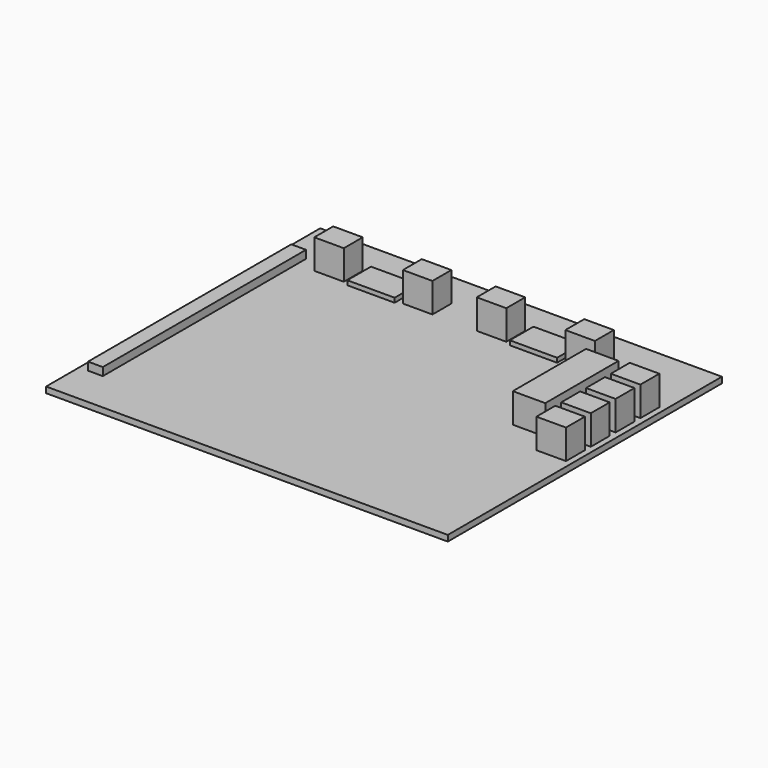
from build123d import *

# Parameters (mm, degrees)
F0_W        = 136
F0_H        = 116
F1_DEPTH    = 1
F2_W        = 11
F2_H        = 31
F2_W_2      = 16
F2_H_2      = 10
F2_W_3      = 5
F2_H_3      = 86
F2_W_4      = 10
F2_H_4      = 8
F3_DEPTH    = 10
F3_FACE_W   = 5
F3_FACE_H   = 86
F4_DEPTH    = 7.3
F3_FACE_W_2 = 16
F3_FACE_H_2 = 10
F5_DEPTH    = 8.5


with BuildPart() as f1:
    # F0 (on Top) → F1 (new body, symmetric)
    with BuildSketch(Plane.XY):
        Rectangle(F0_W, F0_H)
    extrude(amount=F1_DEPTH, both=True)

    # F2 (on face) → F3 (join)
    with BuildSketch(Plane.XY.offset(1)):
        with Locations((47.5, 17.5)):
            Rectangle(F2_W, F2_H)
        with Locations((21, 42)):
            Rectangle(F2_W_2, F2_H_2)
        with Locations((-34, 42)):
            Rectangle(F2_W_2, F2_H_2)
        with Locations((-62.5, -1)):
            Rectangle(F2_W_3, F2_H_3)
        with Locations((-49, 42)):
            Rectangle(F2_W_4, F2_H_4)
        with Locations((-19, 42)):
            Rectangle(F2_W_4, F2_H_4)
        with Locations((6, 42)):
            Rectangle(F2_W_4, F2_H_4)
        with Locations((36, 42)):
            Rectangle(F2_W_4, F2_H_4)
        with Locations((61, 30)):
            Rectangle(F2_W_4, F2_H_4)
        with Locations((61, 19.5)):
            Rectangle(F2_W_4, F2_H_4)
        with Locations((61, 9)):
            Rectangle(F2_W_4, F2_H_4)
        with Locations((61, -1.5)):
            Rectangle(F2_W_4, F2_H_4)
    extrude(amount=F3_DEPTH)

    # F3_face (on face) → F4 (cut)
    with BuildSketch(Plane(origin=(-62.5, -1, 11), x_dir=(1, 0, 0), z_dir=(0, 0, 1))):
        Rectangle(F3_FACE_W, F3_FACE_H)
    extrude(amount=-F4_DEPTH, mode=Mode.SUBTRACT)

    # F3_face (on face) → F5 (cut)
    with BuildSketch(Plane(origin=(-62.5, -1, 11), x_dir=(1, 0, 0), z_dir=(0, 0, 1))):
        with Locations((28.5, 43)):
            Rectangle(F3_FACE_W_2, F3_FACE_H_2)
        with Locations((83.5, 43)):
            Rectangle(F3_FACE_W_2, F3_FACE_H_2)
    extrude(amount=-F5_DEPTH, mode=Mode.SUBTRACT)


solid = f1.part
